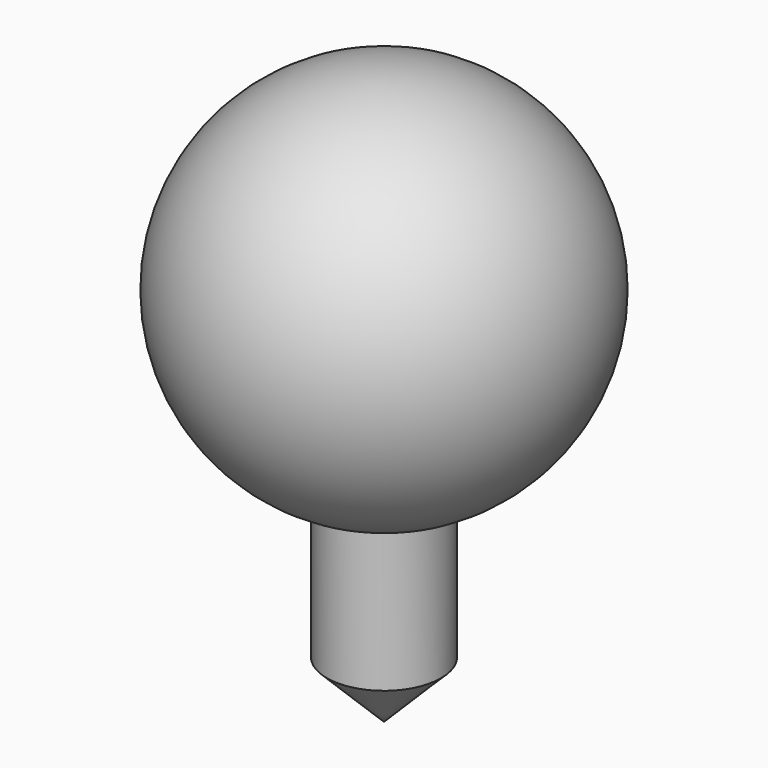
from build123d import *

# Parameters (mm, degrees)
F2_R     = 19.05
F3_DEPTH = 127
F4_SIZE  = 19.05


with BuildPart() as f1:
    # F0 (on Front) → F1 (revolve)
    with BuildSketch(Plane.XZ):
        with BuildLine():
            Line((0, -63.5), (0, 63.5))
            ThreePointArc((0, 63.5), (-63.5, 0), (0, -63.5))
        make_face()
    revolve(axis=Axis((0, 0, 0), (0, 0, -1)))

    # F2 (on Top) → F3 (join)
    with BuildSketch(Plane.XY):
        Circle(F2_R)
    extrude(amount=-F3_DEPTH)

    # F4
    f4_edges = [f1.edges().sort_by_distance(p)[0] for p in [
        (-19.05, 0, -127),
    ]]
    chamfer(f4_edges, length=F4_SIZE)


solid = f1.part
